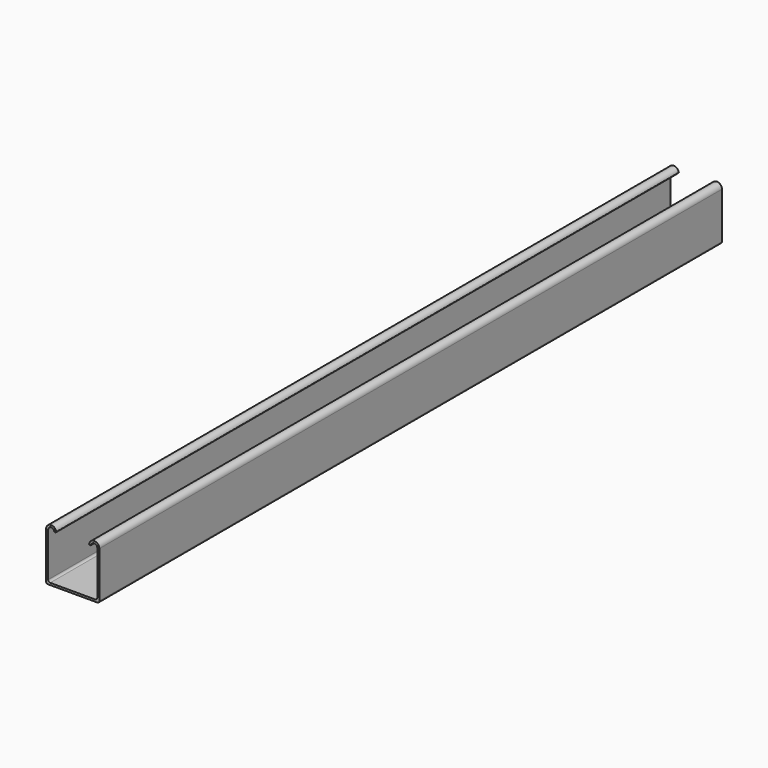
from build123d import *

# Parameters (mm, degrees)
F1_DEPTH = 301.625
F2_R     = 1.5875
F3_R     = 0.635


with BuildPart() as f1:
    # F0 (on Front) → F1 (new body, symmetric)
    with BuildSketch(Plane.XZ):
        with BuildLine():
            Line((0, 37.3126), (0, 0))
            Line((0, 0), (41.275, 0))
            Line((41.275, 0), (41.275, 37.3126))
            ThreePointArc((41.275, 37.3126), (37.3126, 41.275), (33.3502, 37.3126))
            Line((33.3502, 37.3126), (34.9377, 37.3126))
            ThreePointArc((34.9377, 37.3126), (37.3126, 39.6875), (39.6875, 37.3126))
            Line((39.6875, 37.3126), (39.6875, 1.5875))
            Line((39.6875, 1.5875), (1.5875, 1.5875))
            Line((1.5875, 1.5875), (1.5875, 37.3126))
            ThreePointArc((1.5875, 37.3126), (3.9624, 39.6875), (6.3373, 37.3126))
            Line((6.3373, 37.3126), (7.9248, 37.3126))
            ThreePointArc((7.9248, 37.3126), (3.9624, 41.275), (0, 37.3126))
        make_face()
    extrude(amount=F1_DEPTH, both=True)

    # F2
    f2_edges = [f1.edges().sort_by_distance(p)[0] for p in [
        (0, 0, 0),
        (41.275, 0, 0),
        (39.6875, 0, 1.5875),
        (1.5875, 0, 1.5875),
    ]]
    fillet(f2_edges, radius=F2_R)

    # F3
    f3_edges = [f1.edges().sort_by_distance(p)[0] for p in [
        (6.3373, 0, 37.3126),
        (7.9248, 0, 37.3126),
        (33.3502, 0, 37.3126),
        (34.9377, 0, 37.3126),
    ]]
    fillet(f3_edges, radius=F3_R)


solid = f1.part
